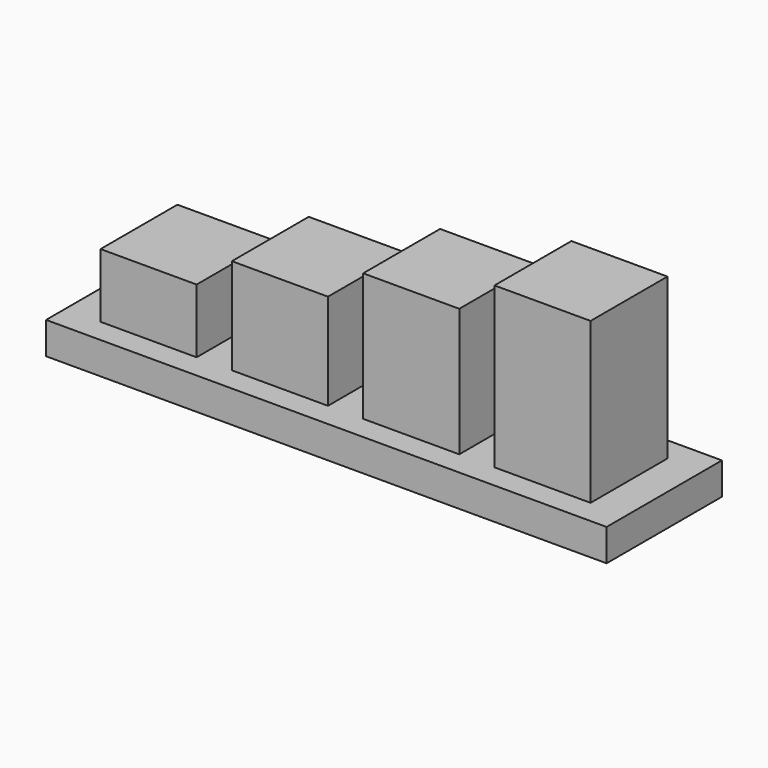
from build123d import *

# Parameters (mm, degrees)
F0_W     = 7.62
F0_H     = 7.62
F1_DEPTH = 7.62
F2_DEPTH = 2.54
F3_DEPTH = 5.08
F4_DEPTH = 7.62
F0_W_2   = 44.45
F0_H_2   = 11.43
F5_DEPTH = 2.54


with BuildPart() as f1:
    # F0 (on Top) → F1 (new body)
    with BuildSketch(Plane.XY):
        with Locations((-5.207, 0)):
            Rectangle(F0_W, F0_H)
    extrude(amount=F1_DEPTH)

    # F2 (add): a face of the model
    f2_faces = [f1.faces().sort_by_distance(p)[0] for p in [
        (-5.207, 0, 7.62),
    ]]
    extrude(f2_faces, amount=F2_DEPTH)


with BuildPart() as f1b:
    # F0 (on Top) → F1, piece 2 (new body)
    with BuildSketch(Plane.XY):
        with Locations((-15.621, 0)):
            Rectangle(F0_W, F0_H)
    extrude(amount=F1_DEPTH)


with BuildPart() as f1c:
    # F0 (on Top) → F1, piece 3 (new body)
    with BuildSketch(Plane.XY):
        with Locations((5.207, 0)):
            Rectangle(F0_W, F0_H)
    extrude(amount=F1_DEPTH)

    # F3 (add): a face of the model
    f3_faces = [f1c.faces().sort_by_distance(p)[0] for p in [
        (5.207, 0, 7.62),
    ]]
    extrude(f3_faces, amount=F3_DEPTH)


with BuildPart() as f1d:
    # F0 (on Top) → F1, piece 4 (new body)
    with BuildSketch(Plane.XY):
        with Locations((15.621, 0)):
            Rectangle(F0_W, F0_H)
    extrude(amount=F1_DEPTH)

    # F4 (add): a face of the model
    f4_faces = [f1d.faces().sort_by_distance(p)[0] for p in [
        (15.621, 0, 7.62),
    ]]
    extrude(f4_faces, amount=F4_DEPTH)


with BuildPart() as f5:
    # F0 (on Top) → F5 (new body)
    with BuildSketch(Plane.XY):
        Rectangle(F0_W_2, F0_H_2)
        with Locations((-15.621, 0)):
            Rectangle(F0_W, F0_H, mode=Mode.SUBTRACT)
        with Locations((-5.207, 0)):
            Rectangle(F0_W, F0_H, mode=Mode.SUBTRACT)
        with Locations((5.207, 0)):
            Rectangle(F0_W, F0_H, mode=Mode.SUBTRACT)
        with Locations((15.621, 0)):
            Rectangle(F0_W, F0_H, mode=Mode.SUBTRACT)
    extrude(amount=F5_DEPTH)


solid = Compound([f1.part, f1b.part, f1c.part, f1d.part, f5.part])
